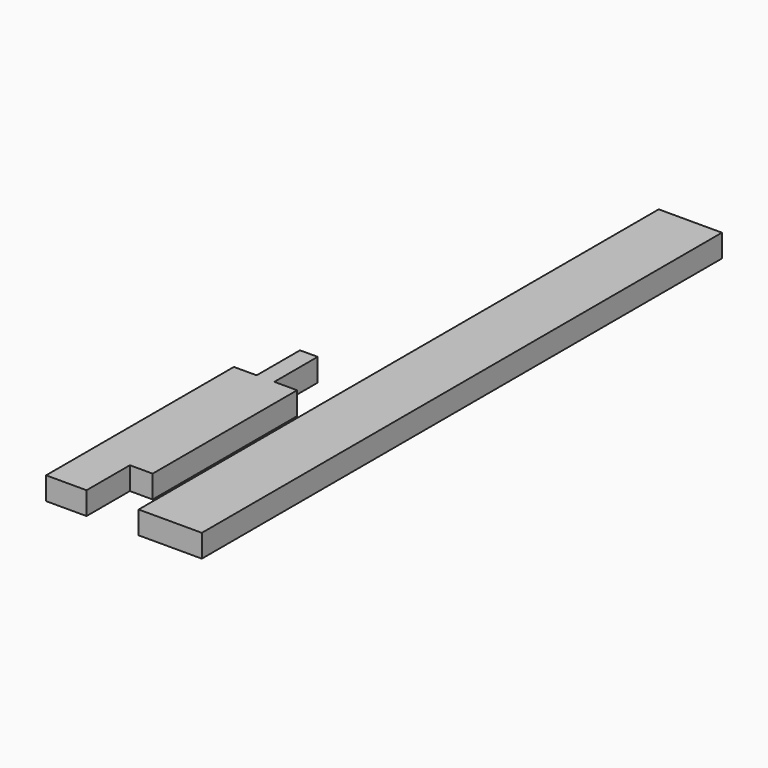
from build123d import *

# Parameters (mm, degrees)
F0_W     = 175
F0_H     = 63
F1_DEPTH = 800
F2_W     = 63
F2_H     = 150
F3_DEPTH = 63.001
F4_W     = 175
F4_H     = 63
F5_DEPTH = 1800


with BuildPart() as f1:
    # F0 (on Front) → F1 (new body)
    with BuildSketch(Plane.XZ):
        Rectangle(F0_W, F0_H)
    extrude(amount=-F1_DEPTH)

    # F2 (on face) → F3 (cut, through all)
    with BuildSketch(Plane.XY.offset(31.5)):
        with Locations((56, 75)):
            Rectangle(F2_W, F2_H)
        with Locations((-56, 725)):
            Rectangle(F2_W, F2_H)
        with Locations((56, 725)):
            Rectangle(F2_W, F2_H)
    extrude(amount=-F3_DEPTH, mode=Mode.SUBTRACT)


with BuildPart() as f5:
    # F4 (on Front) → F5 (new body)
    with BuildSketch(Plane.XZ):
        with Locations((256.285995, 0)):
            Rectangle(F4_W, F4_H)
    extrude(amount=-F5_DEPTH)


solid = Compound([f1.part, f5.part])
